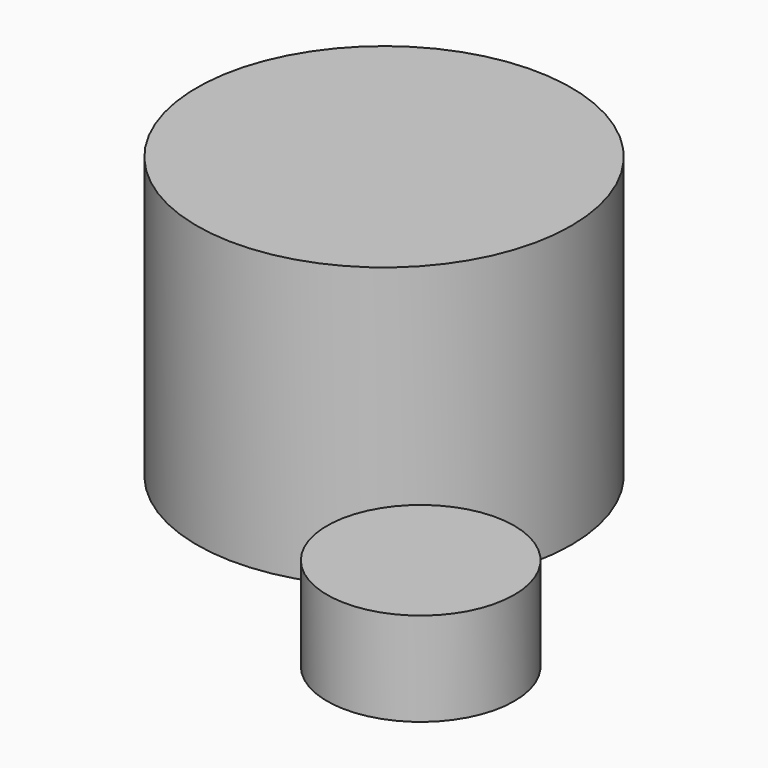
from build123d import *

# Parameters (mm, degrees)
F0_R     = 50.8
F2_DEPTH = 76.2
F1_R     = 25.4
F3_DEPTH = 25.4
F4_T     = -6.35
F5_T     = -6.35


with BuildPart() as f2:
    # F0 (on Top) → F2 (new body)
    with BuildSketch(Plane.XY):
        with Locations((-29.333496, 22.394389)):
            Circle(F0_R)
    extrude(amount=F2_DEPTH)

    # F4
    f4_openings = [f2.faces().sort_by_distance(p)[0] for p in [
        (-29.333496, 22.394389, 0),
    ]]
    offset(amount=F4_T, openings=f4_openings)


with BuildPart() as f3:
    # F1 (on Top) → F3 (new body)
    with BuildSketch(Plane.XY):
        with Locations((31.439163, -41.14778)):
            Circle(F1_R)
    extrude(amount=F3_DEPTH)

    # F5
    f5_openings = [f3.faces().sort_by_distance(p)[0] for p in [
        (31.439163, -41.14778, 0),
    ]]
    offset(amount=F5_T, openings=f5_openings)


solid = Compound([f2.part, f3.part])
